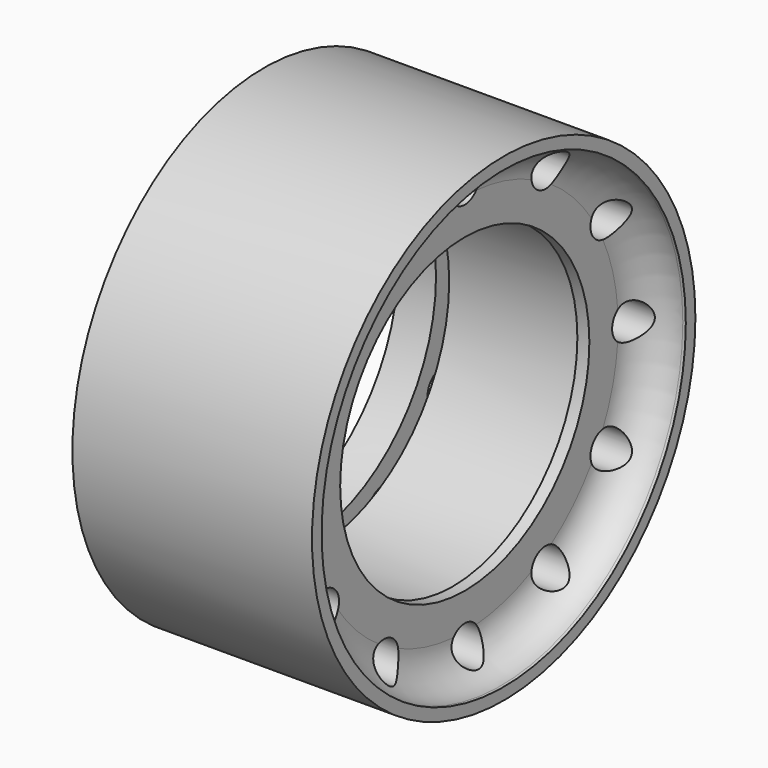
from build123d import *

# Parameters (mm, degrees)
F2_R     = 3
F3_DEPTH = 40.001


with BuildPart() as f1:
    # F0 (on Top) → F1 (revolve)
    with BuildSketch(Plane.XY):
        with BuildLine():
            Line((20, 40), (-20, 40))
            Line((-20, 40), (-20, 28))
            Line((-20, 28), (-13.7, 28))
            Line((-13.7, 28), (-13.7, 31.5))
            Line((-13.7, 31.5), (-11.5, 31.5))
            Line((-11.5, 31.5), (-11.5, 28))
            Line((-11.5, 28), (11.5, 28))
            Line((11.5, 28), (11.5, 26))
            Line((11.5, 26), (13.5, 26))
            Line((13.5, 26), (13.5, 32))
            ThreePointArc((13.5, 32), (15.257359, 36.242641), (19.5, 38))
            Line((19.5, 38), (20, 38))
            Line((20, 38), (20, 40))
        make_face()
    revolve(axis=Axis((11.25, 0, 0), (1, 0, 0)))

    # F2 (on face) → F3 (cut, through all)
    with BuildSketch(Plane(origin=(-20, 0, 0), x_dir=(0, -1, 0), z_dir=(-1, 0, 0))):
        with Locations((0, 33.750001)):
            Circle(F2_R)
        with Locations((-16.875001, 29.228359)):
            Circle(F2_R)
        with Locations((-29.228359, 16.875001)):
            Circle(F2_R)
        with Locations((-33.750001, 0)):
            Circle(F2_R)
        with Locations((-29.228359, -16.875001)):
            Circle(F2_R)
        with Locations((-16.875001, -29.228359)):
            Circle(F2_R)
        with Locations((0, -33.750001)):
            Circle(F2_R)
        with Locations((16.875001, -29.228359)):
            Circle(F2_R)
        with Locations((29.228359, -16.875001)):
            Circle(F2_R)
        with Locations((33.750001, 0)):
            Circle(F2_R)
        with Locations((29.228359, 16.875001)):
            Circle(F2_R)
        with Locations((16.875001, 29.228359)):
            Circle(F2_R)
    extrude(amount=-F3_DEPTH, mode=Mode.SUBTRACT)


solid = f1.part
